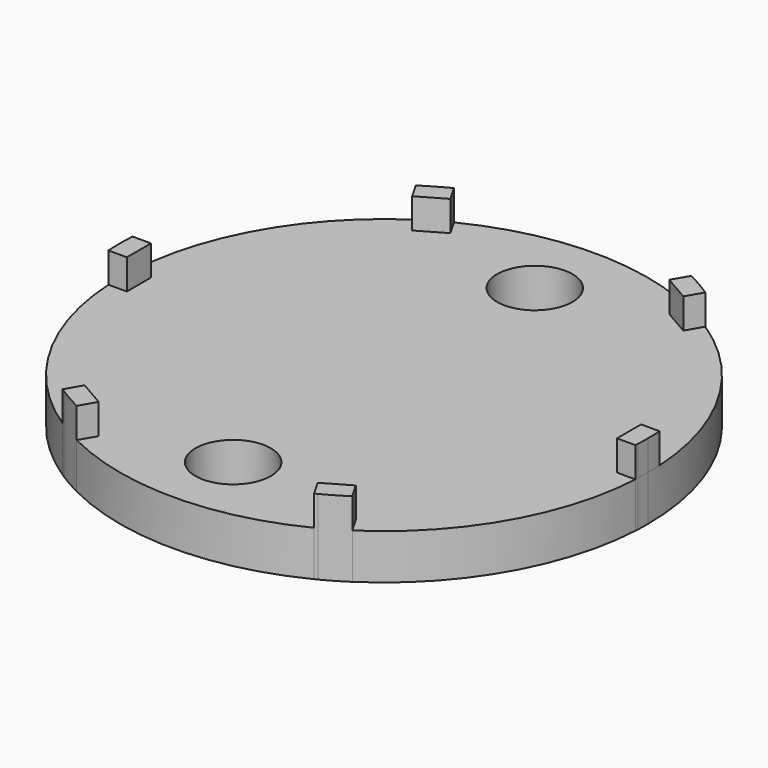
from build123d import *

# Parameters (mm, degrees)
F2_DEPTH = 2
F0_R     = 2.5
F3_DEPTH = 3
F4_COUNT = 6
F5_DEPTH = 3


with BuildPart() as f2:
    # F0 (on Top) → F2 (new body)
    with BuildSketch(Plane.XY):
        with BuildLine():
            Line((-16.25, 1), (-17.4714052097, 1))
            ThreePointArc((-17.4714052097, 1), (-17.4769180723, 0.8985180536), (-17.4818414863, 0.7970058027))
            ThreePointArc((-17.4818414863, 0.7970058027), (-17.4954597826, 0.3986063162), (-17.5, 0))
            ThreePointArc((-17.5, 0), (-17.4928498417, -0.5002043737), (-17.4714052097, -1))
            Line((-17.4714052097, -1), (-16.25, -1))
            Line((-16.25, -1), (-16.25, 1))
        make_face()
    extrude(amount=F2_DEPTH)

    # F0 (on Top) → F3 (join)
    with BuildSketch(Plane.XY):
        with BuildLine():
            ThreePointArc((-17.4714052097, -1), (0.5002043737, -17.4928498417), (17.5, 0))
            ThreePointArc((17.5, 0), (0.5002043737, 17.4928498417), (-17.4714052097, 1))
            Line((-17.4714052097, 1), (-16.25, 1))
            Line((-16.25, 1), (-16.25, -1))
            Line((-16.25, -1), (-17.4714052097, -1))
        make_face()
        with Locations((0, -12.5)):
            Circle(F0_R, mode=Mode.SUBTRACT)
        with Locations((0, 12.5)):
            Circle(F0_R, mode=Mode.SUBTRACT)
        with BuildLine():
            Line((-16.25, 1), (-17.4714052097, 1))
            ThreePointArc((-17.4714052097, 1), (-17.4769180723, 0.8985180536), (-17.4818414863, 0.7970058027))
            ThreePointArc((-17.4818414863, 0.7970058027), (-17.4954597826, 0.3986063162), (-17.5, 0))
            ThreePointArc((-17.5, 0), (-17.4928498417, -0.5002043737), (-17.4714052097, -1))
            Line((-17.4714052097, -1), (-16.25, -1))
            Line((-16.25, -1), (-16.25, 1))
        make_face()
    extrude(amount=-F3_DEPTH)

    # F4: F2 ×6 about axis
    f4_axis = Axis((0, 0, 0), (0, 0, 1))


with BuildPart() as f2_1:
    add(f2.part)
    for i in range(1, F4_COUNT):
        add(f2.part.rotate(f4_axis, i * 360 / F4_COUNT))

    # F0 (on Top) → F5 (cut, through all)
    with BuildSketch(Plane.XY):
        with Locations((0, -12.5)):
            Circle(F0_R)
        with Locations((0, 12.5)):
            Circle(F0_R)
    extrude(amount=-F5_DEPTH, mode=Mode.SUBTRACT)


solid = f2_1.part
